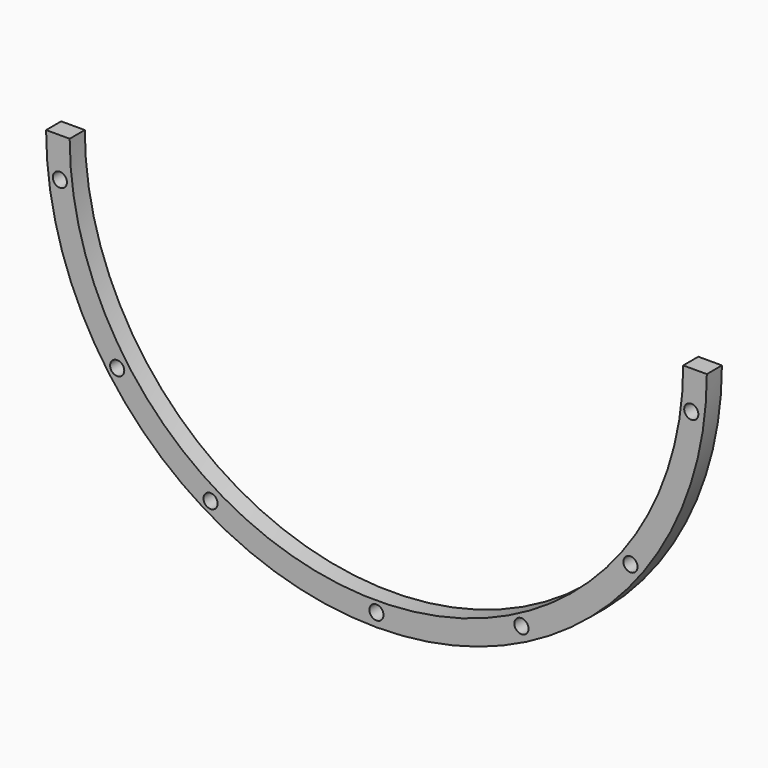
from build123d import *

# Parameters (mm, degrees)
F0_R     = 1.905
F1_DEPTH = 5.08


with BuildPart() as f1:
    # F0 (on Front) → F1 (new body)
    with BuildSketch(Plane.XZ):
        with BuildLine():
            Line((-82.55, 0), (-88.9, 0))
            ThreePointArc((-88.9, 0), (0, -88.9), (88.9, 0))
            Line((88.9, 0), (82.55, 0))
            ThreePointArc((82.55, 0), (0, -82.55), (-82.55, 0))
        make_face()
        with Locations((-44.636052, -73.4872)):
            Circle(F0_R, mode=Mode.SUBTRACT)
        with Locations((-69.768481, -50.176568)):
            Circle(F0_R, mode=Mode.SUBTRACT)
        with Locations((0, -85.372455)):
            Circle(F0_R, mode=Mode.SUBTRACT)
        with Locations((39.012268, -75.926244)):
            Circle(F0_R, mode=Mode.SUBTRACT)
        with Locations((68.36091, -51.739704)):
            Circle(F0_R, mode=Mode.SUBTRACT)
        with Locations((-85.196398, -10.572292)):
            Circle(F0_R, mode=Mode.SUBTRACT)
        with Locations((84.717691, -10.271305)):
            Circle(F0_R, mode=Mode.SUBTRACT)
    extrude(amount=F1_DEPTH)


solid = f1.part
